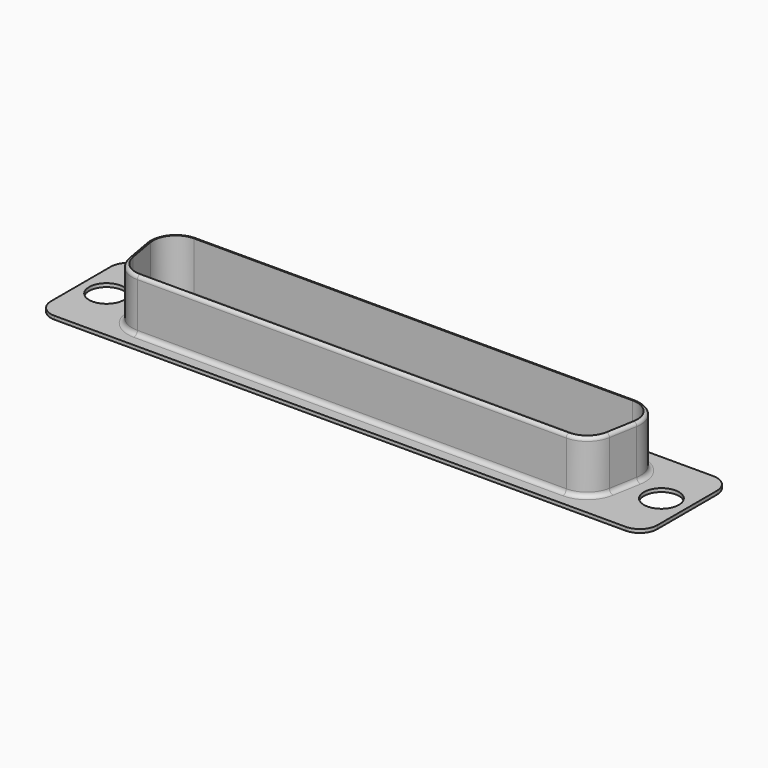
from build123d import *

# Parameters (mm, degrees)
PAD_DEPTH       = 0.4
SKETCH001_R     = 2
POCKET_DEPTH    = 5
PAD001_DEPTH    = 6
POCKET001_DEPTH = 6.401
FILLET_R        = 0.5
FILLET001_R     = 0.39
FILLET002_R     = 0.9


with BuildPart() as part:
    # Sketch → Pad (new body)
    with BuildSketch(Plane.XY):
        with BuildLine():
            Line((-32.7, 6.275), (32.7, 6.275))
            ThreePointArc((34.7, 4.275), (34.114214, 5.689214), (32.7, 6.275))
            Line((34.7, 4.275), (34.7, -4.275))
            ThreePointArc((32.7, -6.275), (34.114214, -5.689214), (34.7, -4.275))
            Line((32.7, -6.275), (-32.7, -6.275))
            ThreePointArc((-34.7, -4.275), (-34.114214, -5.689214), (-32.7, -6.275))
            Line((-34.7, -4.275), (-34.7, 4.275))
            ThreePointArc((-32.7, 6.275), (-34.114214, 5.689214), (-34.7, 4.275))
        make_face()
    extrude(amount=PAD_DEPTH)

    # Sketch001 (on Face10 of Pad) → Pocket (cut)
    with BuildSketch(Plane.XY.offset(0.4)):
        with Locations((-31.755, 0)):
            Circle(SKETCH001_R)
        with Locations((31.755, 0)):
            Circle(SKETCH001_R)
    extrude(amount=-POCKET_DEPTH, mode=Mode.SUBTRACT)

    # Sketch002 (on Face5 of Pocket) → Pad001 (join)
    with BuildSketch(Plane.XY.offset(0.4)):
        with BuildLine():
            Line((-25.11, 4.6), (25.11, 4.6))
            ThreePointArc((28.064304, 1.078381), (27.408354, 3.5281), (25.11, 4.6))
            Line((28.064304, 1.078381), (27.499304, -2.121619))
            ThreePointArc((24.545, -4.6), (26.4731, -3.898354), (27.499304, -2.121619))
            Line((24.545, -4.6), (-24.545, -4.6))
            ThreePointArc((-27.499304, -2.121619), (-26.4731, -3.898354), (-24.545, -4.6))
            Line((-27.499304, -2.121619), (-28.064304, 1.078381))
            ThreePointArc((-25.11, 4.6), (-27.408354, 3.5281), (-28.064304, 1.078381))
        make_face()
    extrude(amount=PAD001_DEPTH)

    # Sketch003 (on Face21 of Pad001) → Pocket001 (cut, through all)
    with BuildSketch(Plane.XY.offset(6.4)):
        with BuildLine():
            Line((-25.11, 4.2), (25.11, 4.2))
            ThreePointArc((27.670397, 1.14793), (27.101906, 3.27102), (25.11, 4.2))
            Line((27.670397, 1.14793), (27.105397, -2.05207))
            ThreePointArc((24.545, -4.2), (26.21602, -3.591906), (27.105397, -2.05207))
            Line((24.545, -4.2), (-24.545, -4.2))
            ThreePointArc((-27.105397, -2.05207), (-26.21602, -3.591906), (-24.545, -4.2))
            Line((-27.105397, -2.05207), (-27.670397, 1.14793))
            ThreePointArc((-25.11, 4.2), (-27.101906, 3.27102), (-27.670397, 1.14793))
        make_face()
    extrude(amount=-POCKET001_DEPTH, mode=Mode.SUBTRACT)

    # Fillet
    fillet_edges = [part.edges().sort_by_distance(p)[0] for p in [
        (0, -4.6, 0.4),
    ]]
    fillet(fillet_edges, radius=FILLET_R)

    # Fillet001
    fillet001_edges = [part.edges().sort_by_distance(p)[0] for p in [
        (-26.4731, -3.898354, 6.4),
    ]]
    fillet(fillet001_edges, radius=FILLET001_R)

    # Fillet002
    fillet002_edges = [part.edges().sort_by_distance(p)[0] for p in [
        (0, 4.2, 0),
    ]]
    fillet(fillet002_edges, radius=FILLET002_R)


solid = part.part
